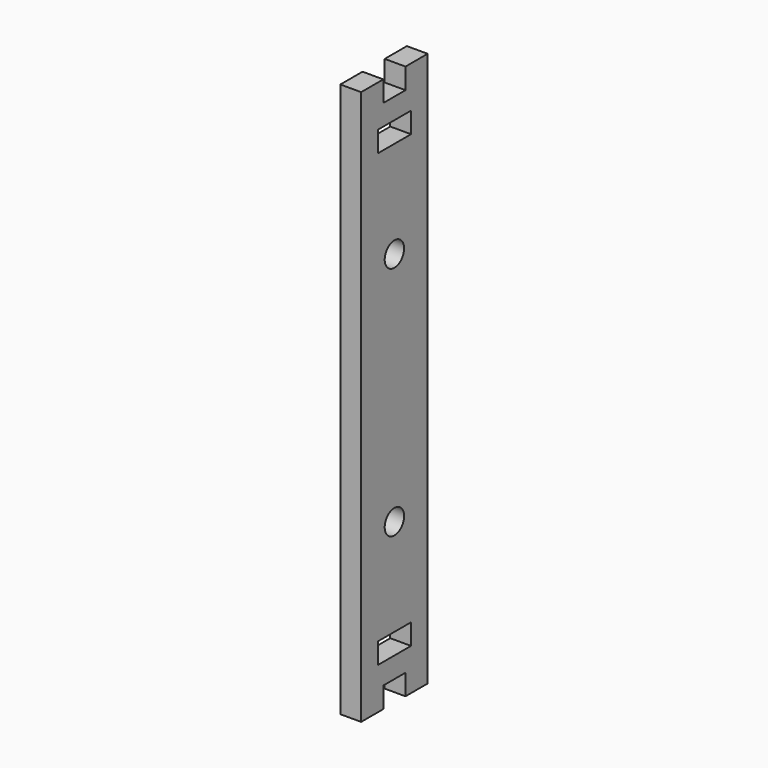
from build123d import *

# Parameters (mm, degrees)
F0_W     = 6
F0_H     = 3
F0_R     = 1.75
F0_W_2   = 4
F1_DEPTH = 3


with BuildPart() as f1:
    # F0 (on Right) → F1 (new body)
    with BuildSketch(Plane.YZ):
        Polygon((6, -37), (6, 37), (2, 37), (-2, 37), (-6, 37), (-6, -37), (-2, -37), (2, -37), align=None)
        with Locations((0, -32.5)):
            Rectangle(F0_W, F0_H, mode=Mode.SUBTRACT)
        with Locations((0, -17)):
            Circle(F0_R, mode=Mode.SUBTRACT)
        with Locations((0, 17)):
            Circle(F0_R, mode=Mode.SUBTRACT)
        with Locations((0, 32.5)):
            Rectangle(F0_W, F0_H, mode=Mode.SUBTRACT)
        with Locations((4, 38.5)):
            Rectangle(F0_W_2, F0_H)
        with Locations((4, -38.5)):
            Rectangle(F0_W_2, F0_H)
        with Locations((-4, 38.5)):
            Rectangle(F0_W_2, F0_H)
        with Locations((-4, -38.5)):
            Rectangle(F0_W_2, F0_H)
    extrude(amount=F1_DEPTH)


solid = f1.part
